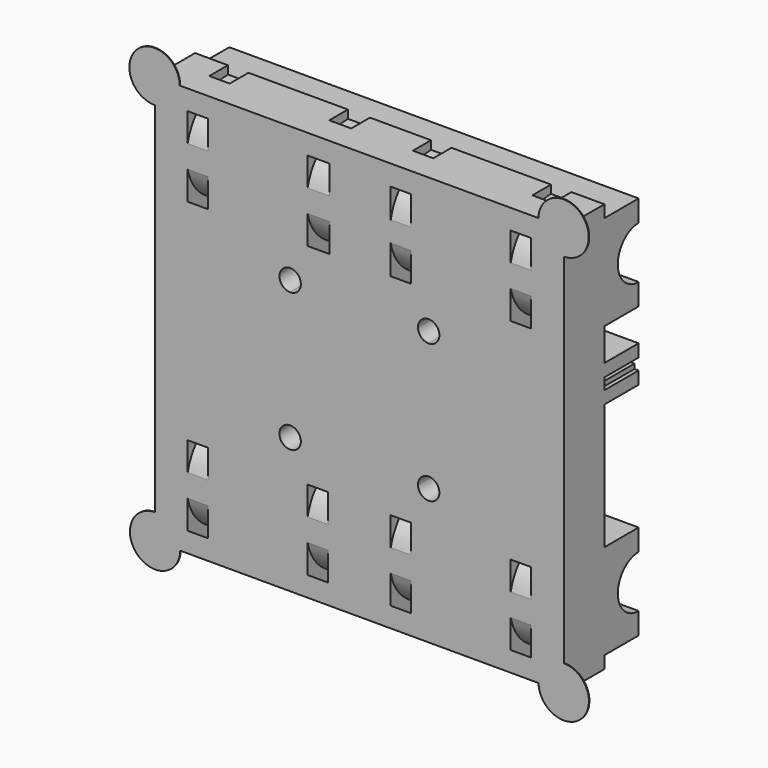
from build123d import *

# Parameters (mm, degrees)
F0_W      = 65
F0_H      = 65
F1_DEPTH  = 8
F2_R      = 1.7
F3_DEPTH  = 10
F5_DEPTH  = 2.5
F7_DEPTH  = 32.5
F8_W      = 8.45
F8_H      = 15.1
F8_W_2    = 4.225
F9_DEPTH  = 7.55
F11_DEPTH = 35
F13_W     = 3.5
F13_H     = 2
F17_W     = 3.25
F17_H     = 2
F21_W     = 3.25
F21_H     = 2
F24_W     = 3.25
F24_H     = 2
F27_W     = 3.25
F27_H     = 2
F30_W     = 3.25
F30_H     = 2
F33_W     = 3.25
F33_H     = 2
F36_W     = 3.25
F36_H     = 2
F39_W     = 15
F39_H     = 2
F40_DEPTH = 6.8
F41_R     = 4.125
F42_DEPTH = 35
F44_R     = 4
F45_DEPTH = 0.5
F46_SIZE  = 0.4


with BuildPart() as f1:
    # F0 (on Front) → F1 (new body)
    with BuildSketch(Plane.XZ):
        Rectangle(F0_W, F0_H)
    extrude(amount=F1_DEPTH)

    # F2 (on Front) → F3 (cut)
    with BuildSketch(Plane.XZ):
        with BuildLine():
            ThreePointArc((-9.3, 11), (-12.202081528, 12.202081528), (-11, 9.3))
            Line((-11, 9.3), (-11, 11))
            Line((-11, 11), (-9.3, 11))
        make_face()
        with Locations((-11, -11)):
            Circle(F2_R)
        with BuildLine():
            ThreePointArc((12.7, -11), (12.202081528, -9.797918472), (11, -9.3))
            Line((11, -9.3), (11, -11))
            Line((11, -11), (9.3, -11))
            ThreePointArc((9.3, -11), (11, -12.7), (12.7, -11))
        make_face()
        with BuildLine():
            Line((11, -11), (11, -9.3))
            ThreePointArc((11, -9.3), (9.797918472, -9.797918472), (9.3, -11))
            Line((9.3, -11), (11, -11))
        make_face()
        with BuildLine():
            ThreePointArc((12.7, 11), (11, 12.7), (9.3, 11))
            Line((9.3, 11), (11, 11))
            Line((11, 11), (11, 9.3))
            ThreePointArc((11, 9.3), (12.202081528, 9.797918472), (12.7, 11))
        make_face()
        with BuildLine():
            Line((11, 11), (9.3, 11))
            ThreePointArc((9.3, 11), (9.797918472, 9.797918472), (11, 9.3))
            Line((11, 9.3), (11, 11))
        make_face()
        with BuildLine():
            Line((-11, 11), (-11, 9.3))
            ThreePointArc((-11, 9.3), (-9.797918472, 9.797918472), (-9.3, 11))
            Line((-9.3, 11), (-11, 11))
        make_face()
    extrude(amount=F3_DEPTH, mode=Mode.SUBTRACT)

    # F4 (on Front) → F5 (cut)
    with BuildSketch(Plane.XZ):
        Polygon((9.3545517328, -8.15), (7.7091034656, -11), (9.3545517328, -13.85), (12.6454482672, -13.85), (14.2908965344, -11), (12.6454482672, -8.15), align=None)
        Polygon((-9.3545517328, -8.15), (-11, -8.15), (-11, -11), (-7.7091034656, -11), align=None)
        Polygon((-11, -11), (-11, -8.15), (-12.6454482672, -8.15), (-14.2908965344, -11), (-12.6454482672, -13.85), (-9.3545517328, -13.85), (-7.7091034656, -11), align=None)
        Polygon((-12.6454482672, 8.15), (-11, 8.15), (-9.3545517328, 8.15), (-7.7091034656, 11), (-9.3545517328, 13.85), (-12.6454482672, 13.85), (-14.2908965344, 11), align=None)
        Polygon((12.6454482672, 13.85), (9.3545517328, 13.85), (7.7091034656, 11), (9.3545517328, 8.15), (12.6454482672, 8.15), (14.2908965344, 11), align=None)
    extrude(amount=F5_DEPTH, mode=Mode.SUBTRACT)

    # F6 (on Right) → F7 (join, symmetric)
    with BuildSketch(Plane.YZ):
        with BuildLine():
            ThreePointArc((7.55, 15.45), (2.211343802, 17.661343802), (0, 23))
            Line((0, 23), (0, 15.45))
            Line((0, 15.45), (7.55, 15.45))
        make_face()
        with BuildLine():
            ThreePointArc((0, 23), (2.211343802, 28.338656198), (7.55, 30.55))
            Line((7.55, 30.55), (0, 30.55))
            Line((0, 30.55), (0, 23))
        make_face()
        with BuildLine():
            ThreePointArc((7.55, -30.55), (2.211343802, -28.338656198), (0, -23))
            Line((0, -23), (0, -30.55))
            Line((0, -30.55), (7.55, -30.55))
        make_face()
        with BuildLine():
            ThreePointArc((0, -23), (2.211343802, -17.661343802), (7.55, -15.45))
            Line((7.55, -15.45), (0, -15.45))
            Line((0, -15.45), (0, -23))
        make_face()
    extrude(amount=F7_DEPTH, both=True)

    # F8 (on Front) → F9 (join)
    with BuildSketch(Plane.XZ):
        with Locations((0, 23)):
            Rectangle(F8_W, F8_H)
        with Locations((30.3875, 23)):
            Rectangle(F8_W_2, F8_H)
        with Locations((-30.3875, 23)):
            Rectangle(F8_W_2, F8_H)
        Polygon((0, -15.45), (-4.225, -15.45), (-4.225, -30.55), (4.225, -30.55), (4.225, -15.45), align=None)
        with Locations((-30.3875, -23)):
            Rectangle(F8_W_2, F8_H)
        with Locations((30.3875, -23)):
            Rectangle(F8_W_2, F8_H)
    extrude(amount=-F9_DEPTH)

    # F10 (on Right) → F11 (cut, symmetric)
    with BuildSketch(Plane.YZ):
        Polygon((6.8, 31.2086623162), (6.8, 23), (6.8, 14.5768709481), (8.1742576897, 14.5768709481), (8.1742576897, 31.2086623162), align=None)
        Polygon((6.8, -14.3492482603), (6.8, -23), (6.8, -31.5114818513), (8.1350247949, -31.5114818513), (8.1350247949, -14.3492482603), align=None)
    extrude(amount=F11_DEPTH, both=True, mode=Mode.SUBTRACT)


with BuildPart() as f1_1:
    # F12: moved
    add(f1.part.moved(Location((5.225, 0, -23))))

    # F15: sweep along a path in F14
    with BuildLine(Plane.YZ) as f15_path:
        ThreePointArc((0, 9.5), (-9.5, 0), (0, -9.5))
    # F13 (on Front) → F15 (sweep, cut)
    with BuildSketch(Plane.XZ):
        with Locations((-1.25, 9.2)):
            Rectangle(F13_W, F13_H)
    sweep(path=f15_path.line, mode=Mode.SUBTRACT)


with BuildPart() as f1_2:
    # F16: moved
    add(f1_1.part.moved(Location((19.05, 0, 0))))

    # F18: sweep along a path in F14
    with BuildLine(Plane.YZ) as f18_path:
        ThreePointArc((0, 9.5), (-9.5, 0), (0, -9.5))
    # F17 (on Front) → F18 (sweep, cut)
    with BuildSketch(Plane.XZ):
        with Locations((-1.375, 9.2)):
            Rectangle(F17_W, F17_H)
    sweep(path=f18_path.line, mode=Mode.SUBTRACT)


with BuildPart() as f1_3:
    # F19: moved
    add(f1_2.part.moved(Location((-24.275, 0, 0))))


with BuildPart() as f1_4:
    # F20: moved
    add(f1_3.part.moved(Location((-5.225, 0, 0))))

    # F22: sweep along a path in F14
    with BuildLine(Plane.YZ) as f22_path:
        ThreePointArc((0, 9.5), (-9.5, 0), (0, -9.5))
    # F21 (on Front) → F22 (sweep, cut)
    with BuildSketch(Plane.XZ):
        with Locations((1.375, 9.1626559884)):
            Rectangle(F21_W, F21_H)
    sweep(path=f22_path.line, mode=Mode.SUBTRACT)


with BuildPart() as f1_5:
    # F23: moved
    add(f1_4.part.moved(Location((-19.05, 0, 0))))

    # F25: sweep along a path in F14
    with BuildLine(Plane.YZ) as f25_path:
        ThreePointArc((0, 9.5), (-9.5, 0), (0, -9.5))
    # F24 (on Front) → F25 (sweep, cut)
    with BuildSketch(Plane.XZ):
        with Locations((1.375, 9.2)):
            Rectangle(F24_W, F24_H)
    sweep(path=f25_path.line, mode=Mode.SUBTRACT)


with BuildPart() as f1_6:
    # F26: moved
    add(f1_5.part.moved(Location((0, 0, 46))))

    # F28: sweep along a path in F14
    with BuildLine(Plane.YZ) as f28_path:
        ThreePointArc((0, 9.5), (-9.5, 0), (0, -9.5))
    # F27 (on Front) → F28 (sweep, cut)
    with BuildSketch(Plane.XZ):
        with Locations((1.375, -9.2)):
            Rectangle(F27_W, F27_H)
    sweep(path=f28_path.line, mode=Mode.SUBTRACT)


with BuildPart() as f1_7:
    # F29: moved
    add(f1_6.part.moved(Location((19.05, 0, 0))))

    # F31: sweep along a path in F14
    with BuildLine(Plane.YZ) as f31_path:
        ThreePointArc((0, 9.5), (-9.5, 0), (0, -9.5))
    # F30 (on Front) → F31 (sweep, cut)
    with BuildSketch(Plane.XZ):
        with Locations((1.375, -9.2)):
            Rectangle(F30_W, F30_H)
    sweep(path=f31_path.line, mode=Mode.SUBTRACT)


with BuildPart() as f1_8:
    # F32: moved
    add(f1_7.part.moved(Location((10.45, 0, 0))))

    # F34: sweep along a path in F14
    with BuildLine(Plane.YZ) as f34_path:
        ThreePointArc((0, 9.5), (-9.5, 0), (0, -9.5))
    # F33 (on Front) → F34 (sweep, cut)
    with BuildSketch(Plane.XZ):
        with Locations((-1.375, -9.2)):
            Rectangle(F33_W, F33_H)
    sweep(path=f34_path.line, mode=Mode.SUBTRACT)


with BuildPart() as f1_9:
    # F35: moved
    add(f1_8.part.moved(Location((19.05, 0, 0))))

    # F37: sweep along a path in F14
    with BuildLine(Plane.YZ) as f37_path:
        ThreePointArc((0, 9.5), (-9.5, 0), (0, -9.5))
    # F36 (on Front) → F37 (sweep, cut)
    with BuildSketch(Plane.XZ):
        with Locations((-1.375, -9.2)):
            Rectangle(F36_W, F36_H)
    sweep(path=f37_path.line, mode=Mode.SUBTRACT)


with BuildPart() as f1_10:
    # F38: moved
    add(f1_9.part.moved(Location((-24.275, 0, -23))))

    # F39 (on Front) → F40 (join)
    with BuildSketch(Plane.XZ):
        with Locations((25, 9.3)):
            Rectangle(F39_W, F39_H)
        Polygon((32.5, 4.5), (32.5, 6.5), (31.85, 6.5), (31.85, 7.25), (31.15, 7.25), (31.15, 6.5), (29.85, 6.5), (29.85, 7.25), (29.15, 7.25), (29.15, 6.5), (27.85, 6.5), (27.85, 7.25), (27.15, 7.25), (27.15, 6.5), (25.85, 6.5), (25.85, 7.25), (25.15, 7.25), (25.15, 6.5), (23.85, 6.5), (23.85, 7.25), (23.15, 7.25), (23.15, 6.5), (21.85, 6.5), (21.85, 7.25), (21.15, 7.25), (21.15, 6.5), (19.85, 6.5), (19.85, 7.25), (19.15, 7.25), (19.15, 6.4999994971), (17.5, 6.4999994971), (17.5, 4.5), align=None)
        Polygon((-31.85, 6.5), (-32.5, 6.5), (-32.5, 4.5), (-17.5, 4.5), (-17.5, 6.5), (-19.15, 6.5), (-19.15, 7.25), (-19.85, 7.25), (-19.85, 6.5), (-21.15, 6.5), (-21.15, 7.25), (-21.85, 7.25), (-21.85, 6.5), (-23.15, 6.5), (-23.15, 7.25), (-23.85, 7.25), (-23.85, 6.5), (-25.15, 6.5), (-25.15, 7.25), (-25.85, 7.25), (-25.85, 6.5), (-27.15, 6.5), (-27.15, 7.25), (-27.85, 7.25), (-27.85, 6.5), (-29.15, 6.5), (-29.15, 7.25), (-29.85, 7.25), (-29.85, 6.5), (-31.15, 6.5), (-31.15, 7.25), (-31.85, 7.25), align=None)
        with Locations((-25, 9.3)):
            Rectangle(F39_W, F39_H)
    extrude(amount=-F40_DEPTH)

    # F41 (on Right) → F42 (cut, symmetric)
    with BuildSketch(Plane.YZ):
        with Locations((6.8, 23)):
            Circle(F41_R)
        with BuildLine():
            ThreePointArc((2.675, -23), (6.8, -27.125), (10.925, -23))
            ThreePointArc((10.925, -23), (6.8, -18.875), (2.675, -23))
        make_face()
    extrude(amount=F42_DEPTH, both=True, mode=Mode.SUBTRACT)


with BuildPart() as f1_11:
    # F43: moved
    add(f1_10.part.moved(Location((0, 8, 0))))

    # F44 (on Front) → F45 (join)
    with BuildSketch(Plane.XZ):
        with Locations((32.4197337031, 32.4183478951)):
            Circle(F44_R)
        with Locations((-32.5323008001, 32.4707143009)):
            Circle(F44_R)
        with Locations((-32.4454307556, -32.4319042265)):
            Circle(F44_R)
        with Locations((32.4491225183, -32.4319042265)):
            Circle(F44_R)
    extrude(amount=-F45_DEPTH)

    # F46
    f46_edges = [f1_11.edges().sort_by_distance(p)[0] for p in [
        (35.248651, 0.5, 35.246285),
        (-35.382418, 0.5, 35.277283),
        (35.283631, 0.5, -35.254237),
        (-35.278637, 0.5, -35.255544),
    ]]
    chamfer(f46_edges, length=F46_SIZE)


solid = f1_11.part
